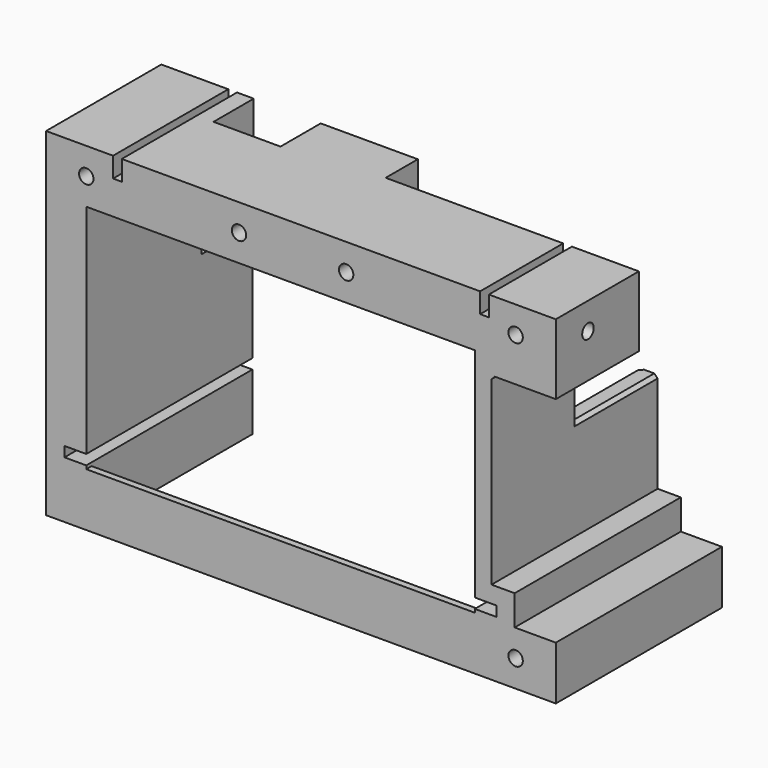
from build123d import *

# Parameters (mm, degrees)
PAD_DEPTH       = 16
SKETCH002_R     = 2.15
POCKET001_DEPTH = 8
SKETCH003_R     = 2.15
POCKET002_DEPTH = 8
PAD001_DEPTH    = 62
SKETCH005_W     = 723.80365
SKETCH005_H     = 658.353257
POCKET003_DEPTH = 30
CHAMFER_SIZE    = 1
SKETCH001_R     = 2.15
SKETCH001_W     = 2.6
SKETCH001_H     = 6
POCKET_DEPTH    = 62.001
SKETCH006_W     = 116
SKETCH006_H     = 16
PAD002_DEPTH    = 2


with BuildPart() as part:
    # Sketch → Pad (new body)
    with BuildSketch(Plane.XY):
        Polygon((0, 0), (0, 43), (27.6, 43), (27.6, 28), (47.6, 28), (47.6, 43), (76.6, 43), (76.6, 31), (152.2, 31), (152.2, 0), align=None)
    extrude(amount=PAD_DEPTH)

    # Sketch002 → Pocket001 (cut)
    with BuildSketch(Plane.YZ):
        with Locations((12, 8)):
            Circle(SKETCH002_R)
    extrude(amount=POCKET001_DEPTH, mode=Mode.SUBTRACT)

    # Sketch003 (on DatumPlane) → Pocket002 (cut)
    with BuildSketch(Plane.YZ.offset(152.2)):
        with Locations((12, 8)):
            Circle(SKETCH003_R)
    extrude(amount=-POCKET002_DEPTH, mode=Mode.SUBTRACT)

    # Sketch004 → Pad001 (join)
    with BuildSketch(Plane.XZ):
        Polygon((128, 0), (152.2, 0), (152.2, -5), (133, -5), (133, -60), (139.919662, -60), (139.919662, -69), (152.2, -69), (152.2, -85), (128, -85), (128, -68), (134.5, -68), (134.5, -65), (128, -65), align=None)
        Polygon((0, 0), (12, 0), (12, -65), (5.5, -65), (5.5, -68), (12, -68), (12, -85), (0, -85), (0, -65), align=None)
    extrude(amount=-PAD001_DEPTH)

    # Sketch005 → Pocket003 (cut)
    with BuildSketch(Plane.XY):
        with Locations((105.388489, 130.509316)):
            Rectangle(SKETCH005_W, SKETCH005_H)
        Polygon((0, 0), (0, 43), (76.6, 43), (76.6, 31), (152.2, 31), (152.2, 0), align=None, mode=Mode.SUBTRACT)
    extrude(amount=-POCKET003_DEPTH, mode=Mode.SUBTRACT)

    # Chamfer
    chamfer_edges = [part.edges().sort_by_distance(p)[0] for p in [
        (133, 46.5, -30),
        (133, 15.5, -5),
        (128, 31, -15),
        (128, 62, -47.5),
        (27.6, 35.5, 0),
        (0, 9.85, 8),
    ]]
    chamfer(chamfer_edges, length=CHAMFER_SIZE)

    # Sketch001 → Pocket (cut, through all)
    with BuildSketch(Plane.XZ):
        with Locations((12, 8)):
            Circle(SKETCH001_R)
        with Locations((89.6, 8)):
            Circle(SKETCH001_R)
        with Locations((140.2, 8)):
            Circle(SKETCH001_R)
        with Locations((57.6, 8)):
            Circle(SKETCH001_R)
        with Locations((140.2, -77)):
            Circle(SKETCH001_R)
        with Locations((21.3, 13)):
            Rectangle(SKETCH001_W, SKETCH001_H)
        with Locations((130.9, 13)):
            Rectangle(SKETCH001_W, SKETCH001_H)
    extrude(amount=-POCKET_DEPTH, mode=Mode.SUBTRACT)

    # Sketch006 → Pad002 (join)
    with BuildSketch(Plane.XZ):
        with Locations((70, -77)):
            Rectangle(SKETCH006_W, SKETCH006_H)
    extrude(amount=-PAD002_DEPTH)


solid = part.part
